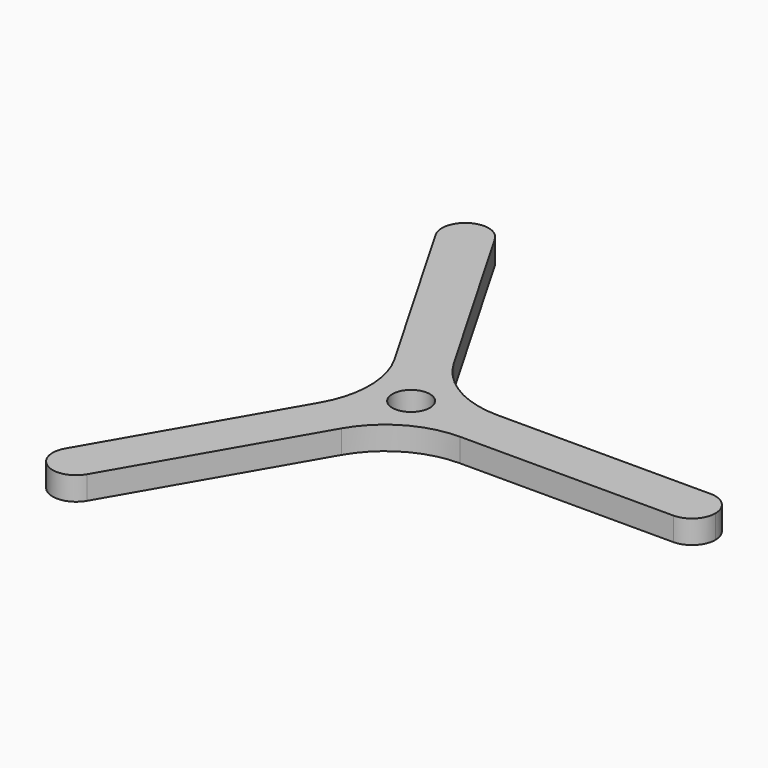
from build123d import *

# Parameters (mm, degrees)
F1_DEPTH = 2.5
F3_D     = 4
F4_R     = 10


with BuildPart() as f1:
    # F0 (on Top) → F1 (new body)
    with BuildSketch(Plane.XY):
        with BuildLine():
            ThreePointArc((2.1650635095, -1.25), (2.4148145657, -0.6470476128), (2.5, 0))
            Line((2.5, 0), (0, 0))
            Line((0, 0), (-1.25, -2.1650635095))
            ThreePointArc((-1.25, -2.1650635095), (-0.6470476128, -2.4148145657), (0, -2.5))
            ThreePointArc((0, -2.5), (1.25, -2.1650635095), (2.1650635095, -1.25))
        make_face()
        with BuildLine():
            Line((-1.25, -2.1650635095), (0, 0))
            Line((0, 0), (-1.25, 2.1650635095))
            ThreePointArc((-1.25, 2.1650635095), (-1.767766953, 1.767766953), (-2.1650635095, 1.25))
            ThreePointArc((-2.1650635095, 1.25), (-2.5, 0), (-2.1650635095, -1.25))
            ThreePointArc((-2.1650635095, -1.25), (-1.767766953, -1.767766953), (-1.25, -2.1650635095))
        make_face()
        with BuildLine():
            ThreePointArc((30, -2.5), (31.767766953, -1.767766953), (32.5, 0))
            ThreePointArc((32.5, 0), (31.767766953, 1.767766953), (30, 2.5))
            ThreePointArc((30, 2.5), (28.232233047, 1.767766953), (27.5, 0))
            ThreePointArc((27.5, 0), (28.232233047, -1.767766953), (30, -2.5))
        make_face()
        with BuildLine():
            ThreePointArc((-12.5, 25.9807621135), (-12.5851854343, 26.6278097263), (-12.8349364905, 27.2307621135))
            ThreePointArc((-12.8349364905, 27.2307621135), (-16.25, 28.145825623), (-17.1650635095, 24.7307621135))
            ThreePointArc((-17.1650635095, 24.7307621135), (-15.6470476128, 23.5659475478), (-13.75, 23.8156986041))
            ThreePointArc((-13.75, 23.8156986041), (-12.8349364905, 24.7307621135), (-12.5, 25.9807621135))
        make_face()
        with BuildLine():
            ThreePointArc((-17.1650635095, -24.7307621135), (-16.25, -28.145825623), (-12.8349364905, -27.2307621135))
            ThreePointArc((-12.8349364905, -27.2307621135), (-12.5851854343, -26.6278097263), (-12.5, -25.9807621135))
            ThreePointArc((-12.5, -25.9807621135), (-12.8349364905, -24.7307621135), (-13.75, -23.8156986041))
            ThreePointArc((-13.75, -23.8156986041), (-15.6470476128, -23.5659475478), (-17.1650635095, -24.7307621135))
        make_face()
        with BuildLine():
            ThreePointArc((27.5, 0), (28.232233047, 1.767766953), (30, 2.5))
            Line((30, 2.5), (1.443375673, 2.5))
            Line((1.443375673, 2.5), (2.1650635095, 1.25))
            ThreePointArc((2.1650635095, 1.25), (2.4148145657, 0.6470476128), (2.5, 0))
            Line((2.5, 0), (27.5, 0))
        make_face()
        with BuildLine():
            Line((1.443375673, -2.5), (30, -2.5))
            ThreePointArc((30, -2.5), (28.232233047, -1.767766953), (27.5, 0))
            Line((27.5, 0), (2.5, 0))
            ThreePointArc((2.5, 0), (2.4148145657, -0.6470476128), (2.1650635095, -1.25))
            Line((2.1650635095, -1.25), (1.443375673, -2.5))
        make_face()
        with BuildLine():
            Line((-12.8349364905, -27.2307621135), (1.443375673, -2.5))
            Line((1.443375673, -2.5), (0, -2.5))
            ThreePointArc((0, -2.5), (-0.6470476128, -2.4148145657), (-1.25, -2.1650635095))
            Line((-1.25, -2.1650635095), (-13.75, -23.8156986041))
            ThreePointArc((-13.75, -23.8156986041), (-12.8349364905, -24.7307621135), (-12.5, -25.9807621135))
            ThreePointArc((-12.5, -25.9807621135), (-12.5851854343, -26.6278097263), (-12.8349364905, -27.2307621135))
        make_face()
        with BuildLine():
            Line((0, 2.5), (1.443375673, 2.5))
            Line((1.443375673, 2.5), (-12.8349364905, 27.2307621135))
            ThreePointArc((-12.8349364905, 27.2307621135), (-12.5851854343, 26.6278097263), (-12.5, 25.9807621135))
            ThreePointArc((-12.5, 25.9807621135), (-12.8349364905, 24.7307621135), (-13.75, 23.8156986041))
            Line((-13.75, 23.8156986041), (-1.25, 2.1650635095))
            ThreePointArc((-1.25, 2.1650635095), (-0.6470476128, 2.4148145657), (0, 2.5))
        make_face()
        with BuildLine():
            Line((-13.75, -23.8156986041), (-1.25, -2.1650635095))
            ThreePointArc((-1.25, -2.1650635095), (-1.767766953, -1.767766953), (-2.1650635095, -1.25))
            Line((-2.1650635095, -1.25), (-2.8867513459, 0))
            Line((-2.8867513459, 0), (-17.1650635095, -24.7307621135))
            ThreePointArc((-17.1650635095, -24.7307621135), (-15.6470476128, -23.5659475478), (-13.75, -23.8156986041))
        make_face()
        with BuildLine():
            ThreePointArc((-2.1650635095, 1.25), (-1.767766953, 1.767766953), (-1.25, 2.1650635095))
            Line((-1.25, 2.1650635095), (-13.75, 23.8156986041))
            ThreePointArc((-13.75, 23.8156986041), (-15.6470476128, 23.5659475478), (-17.1650635095, 24.7307621135))
            Line((-17.1650635095, 24.7307621135), (-2.8867513459, 0))
            Line((-2.8867513459, 0), (-2.1650635095, 1.25))
        make_face()
        with BuildLine():
            Line((0, 0), (2.5, 0))
            ThreePointArc((2.5, 0), (2.4148145657, 0.6470476128), (2.1650635095, 1.25))
            ThreePointArc((2.1650635095, 1.25), (1.25, 2.1650635095), (0, 2.5))
            ThreePointArc((0, 2.5), (-0.6470476128, 2.4148145657), (-1.25, 2.1650635095))
            Line((-1.25, 2.1650635095), (0, 0))
        make_face()
        with BuildLine():
            Line((0, -2.5), (1.443375673, -2.5))
            Line((1.443375673, -2.5), (2.1650635095, -1.25))
            ThreePointArc((2.1650635095, -1.25), (1.25, -2.1650635095), (0, -2.5))
        make_face()
        with BuildLine():
            Line((2.1650635095, 1.25), (1.443375673, 2.5))
            Line((1.443375673, 2.5), (0, 2.5))
            ThreePointArc((0, 2.5), (1.25, 2.1650635095), (2.1650635095, 1.25))
        make_face()
        with BuildLine():
            ThreePointArc((-2.1650635095, -1.25), (-2.5, 0), (-2.1650635095, 1.25))
            Line((-2.1650635095, 1.25), (-2.8867513459, 0))
            Line((-2.8867513459, 0), (-2.1650635095, -1.25))
        make_face()
    extrude(amount=F1_DEPTH)

    # F3 (through all)
    with Locations(Plane(origin=(0, 0, 0), x_dir=(1, 0, 0), z_dir=(0, 0, -1))):
        with Locations((0, 0)):
            Hole(F3_D / 2)

    # F4
    f4_edges = [f1.edges().sort_by_distance(p)[0] for p in [
        (1.443376, -2.5, 1.25),
        (-2.886751, 0, 1.25),
        (1.443376, 2.5, 1.25),
    ]]
    fillet(f4_edges, radius=F4_R)


solid = f1.part
